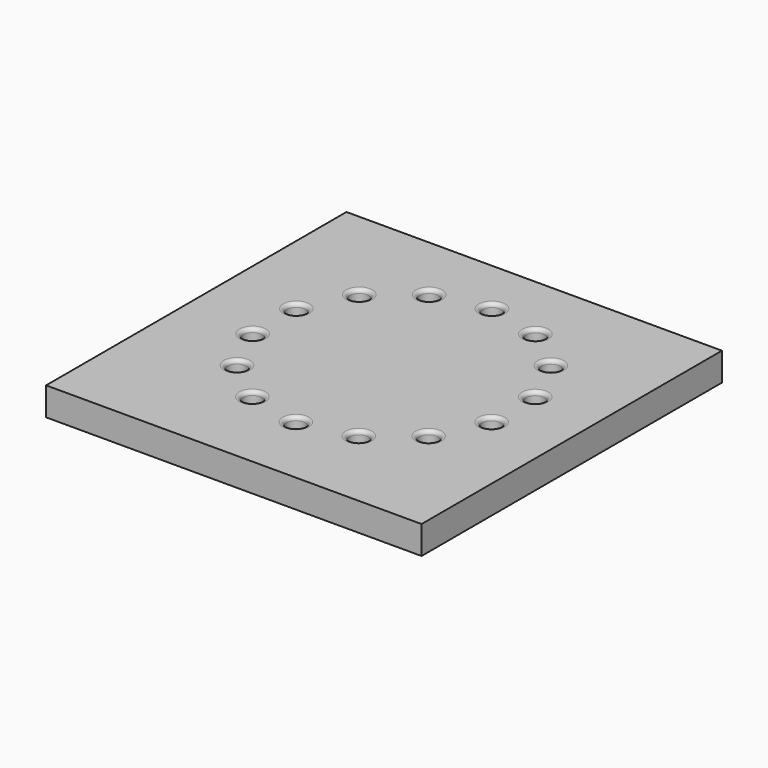
from build123d import *

# Parameters (mm, degrees)
F0_W     = 508
F0_H     = 508
F0_R     = 12.7
F1_DEPTH = 25.4
F2_R     = 5.08
F4_W     = 508
F4_H     = 508
F5_DEPTH = 12.7


with BuildPart() as f1:
    # F0 (on Top) → F1 (new body)
    with BuildSketch(Plane.XY):
        with Locations((-4.4823884964, -11.1948011881)):
            Rectangle(F0_W, F0_H)
        with Locations((-71.9473519823, -149.4002176859)):
            Circle(F0_R, mode=Mode.SUBTRACT)
        with Locations((-161.664233861, -36.8988074602)):
            Circle(F0_R, mode=Mode.SUBTRACT)
        with Locations((-129.6446492754, -103.3881589744)):
            Circle(F0_R, mode=Mode.SUBTRACT)
        with Locations((7.092e-07, -165.8217310905)):
            Circle(F0_R, mode=Mode.SUBTRACT)
        with Locations((71.9473532602, -149.4002170705)):
            Circle(F0_R, mode=Mode.SUBTRACT)
        with Locations((129.6446501598, -103.3881578655)):
            Circle(F0_R, mode=Mode.SUBTRACT)
        with Locations((161.6642341767, -36.8988060774)):
            Circle(F0_R, mode=Mode.SUBTRACT)
        with Locations((-161.6642343345, 36.8988053861)):
            Circle(F0_R, mode=Mode.SUBTRACT)
        with Locations((-129.6446506019, 103.388157311)):
            Circle(F0_R, mode=Mode.SUBTRACT)
        with Locations((-71.9473538991, 149.4002167628)):
            Circle(F0_R, mode=Mode.SUBTRACT)
        with Locations((161.6642340189, 36.8988067688)):
            Circle(F0_R, mode=Mode.SUBTRACT)
        with Locations((129.6446497176, 103.3881584199)):
            Circle(F0_R, mode=Mode.SUBTRACT)
        with Locations((0, 165.8217310905)):
            Circle(F0_R, mode=Mode.SUBTRACT)
        with Locations((71.9473526212, 149.4002173782)):
            Circle(F0_R, mode=Mode.SUBTRACT)
    extrude(amount=F1_DEPTH)

    # F2
    f2_edges = [f1.edges().sort_by_distance(p)[0] for p in [
        (-12.7, 165.821731, 25.4),
        (116.94465, 103.388158, 25.4),
        (59.247353, 149.400217, 25.4),
        (148.964234, 36.898807, 25.4),
        (148.964234, -36.898806, 25.4),
        (116.94465, -103.388158, 25.4),
        (59.247353, -149.400217, 25.4),
        (-12.699999, -165.821731, 25.4),
        (-84.647352, -149.400218, 25.4),
        (-142.344649, -103.388159, 25.4),
        (-174.364234, -36.898807, 25.4),
        (-174.364234, 36.898805, 25.4),
        (-142.344651, 103.388157, 25.4),
        (-84.647354, 149.400217, 25.4),
    ]]
    fillet(f2_edges, radius=F2_R)

    # F4 (on offset) → F5 (join)
    with BuildSketch(Plane(origin=(0, 0, 0), x_dir=(1, 0, 0), z_dir=(0, 0, -1))):
        with Locations((-4.4823884964, 11.1948011881)):
            Rectangle(F4_W, F4_H)
    extrude(amount=F5_DEPTH)


solid = f1.part
